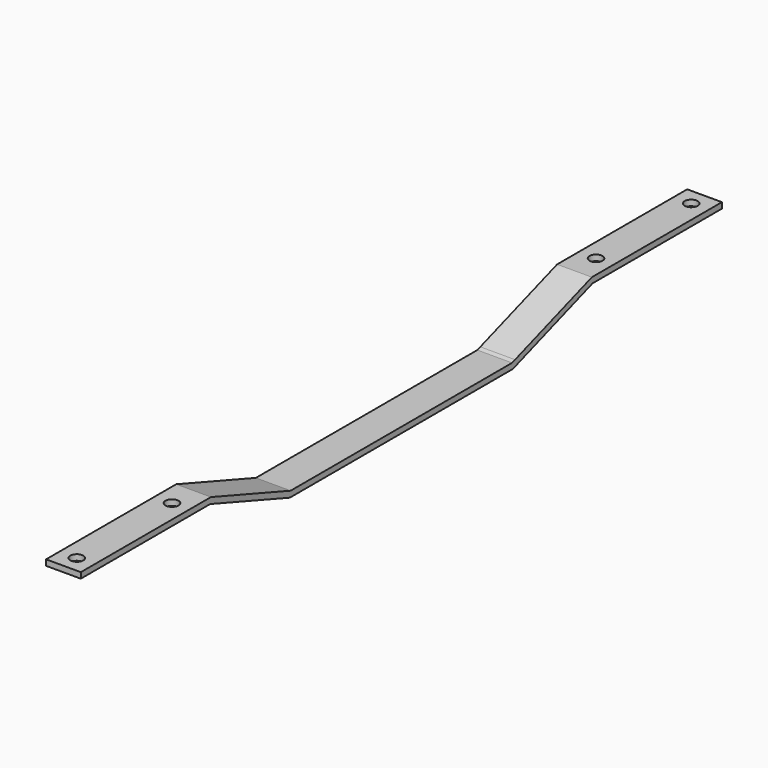
from build123d import *

# Parameters (mm, degrees)
F1_DEPTH      = 4.7498
F2_R          = 0.889
F3_DEPTH      = 0.7874
F3_DEPTH_BACK = 25.4


with BuildPart() as f1:
    # F0 (on Right) → F1 (new body)
    with BuildSketch(Plane.YZ):
        Polygon((22.091185, 4.76885), (35.71647, 0), (73.82103, 0), (87.446315, 4.76885), (109.5375, 4.76885), (109.5375, 5.55625), (87.3125, 5.55625), (74.196499, 0.96565), (73.687214, 0.7874), (73.147637, 0.7874), (35.850286, 0.7874), (22.225, 5.55625), (0, 5.55625), (0, 4.76885), align=None)
    extrude(amount=F1_DEPTH)

    # F2 (on face) → F3 (cut, two sides)
    with BuildSketch(Plane.XY.offset(5.55625)) as f3_sk:
        with Locations((2.3749, 2.286)):
            Circle(F2_R)
        with Locations((2.3749, 107.2515)):
            Circle(F2_R)
        with Locations((2.3749, 90.9955)):
            Circle(F2_R)
        with Locations((2.3749, 18.542)):
            Circle(F2_R)
    extrude(amount=-F3_DEPTH, mode=Mode.SUBTRACT)
    extrude(f3_sk.sketch, amount=-F3_DEPTH_BACK, mode=Mode.SUBTRACT)


solid = f1.part
